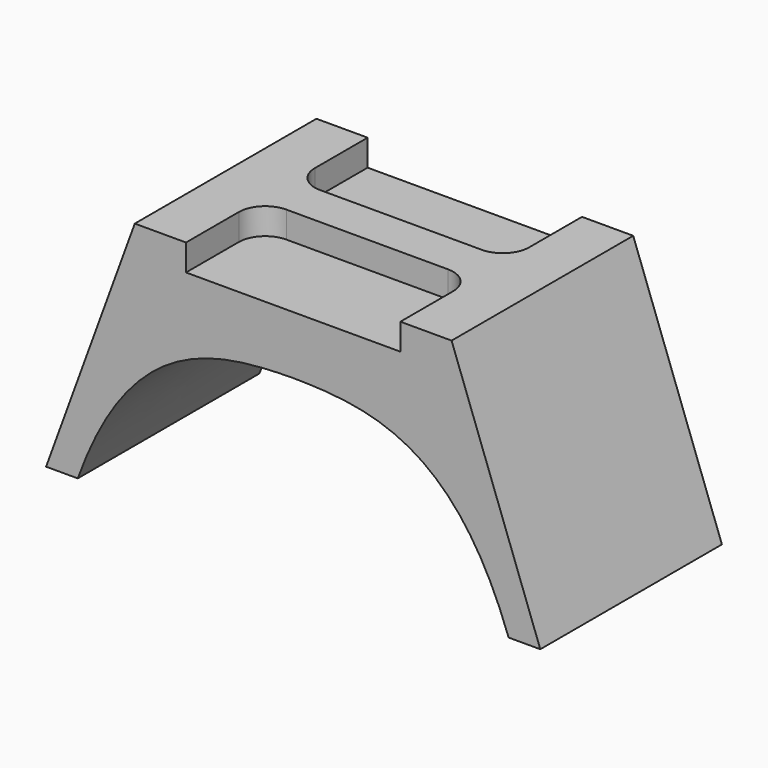
from build123d import *

# Parameters (mm, degrees)
F1_DEPTH = 54.61
F3_DEPTH = 6.35


with BuildPart() as f1:
    # F0 (on Front) → F1 (new body)
    with BuildSketch(Plane.XZ):
        with BuildLine():
            Line((38.1, 0), (0, 0))
            Line((0, 0), (-38.1, 0))
            Line((-38.1, 0), (-59.436, -58.42))
            Line((-59.436, -58.42), (-51.816, -58.42))
            add(Edge.make_bspline(
                [(-51.816, -58.42), (-38.931578, -22.661388), (-18.689103, -20.525511), (0, -20.32)],
                knots=[0, 0, 0, 0, 64.315689, 64.315689, 64.315689, 64.315689], degree=3))
            add(Edge.make_bspline(
                [(51.816, -58.42), (38.931578, -22.661388), (18.689103, -20.525511), (0, -20.32)],
                knots=[0, 0, 0, 0, 64.315689, 64.315689, 64.315689, 64.315689], degree=3))
            Line((51.816, -58.42), (59.436, -58.42))
            Line((59.436, -58.42), (38.1, 0))
        make_face()
    extrude(amount=F1_DEPTH)

    # F2 (on face) → F3 (cut)
    with BuildSketch(Plane.XY):
        with BuildLine():
            Line((-19.431, -22.225), (19.431, -22.225))
            ThreePointArc((19.431, -22.225), (23.921128, -20.365128), (25.781, -15.875))
            Line((25.781, -15.875), (25.781, 0))
            Line((25.781, 0), (-25.781, 0))
            Line((-25.781, 0), (-25.781, -15.875))
            ThreePointArc((-25.781, -15.875), (-23.921128, -20.365128), (-19.431, -22.225))
        make_face()
        with BuildLine():
            Line((-25.781, -54.61), (25.781, -54.61))
            Line((25.781, -54.61), (25.781, -38.735))
            ThreePointArc((25.781, -38.735), (23.921128, -34.244872), (19.431, -32.385))
            Line((19.431, -32.385), (-19.431, -32.385))
            ThreePointArc((-19.431, -32.385), (-23.921128, -34.244872), (-25.781, -38.735))
            Line((-25.781, -38.735), (-25.781, -54.61))
        make_face()
    extrude(amount=-F3_DEPTH, mode=Mode.SUBTRACT)


solid = f1.part
